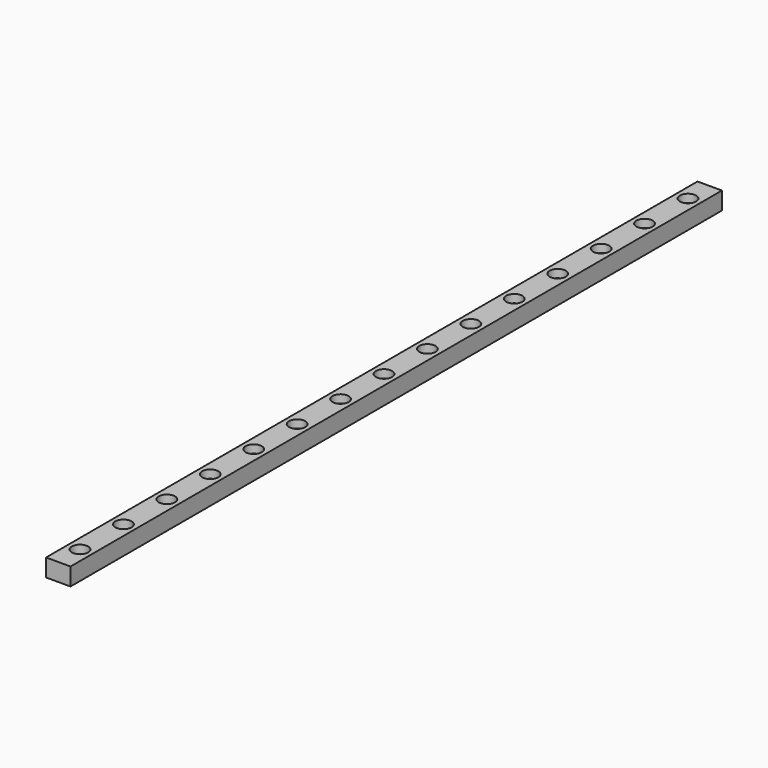
from build123d import *

# Parameters (mm, degrees)
F0_W           = 9
F0_H           = 6.5
F1_DEPTH       = 150
F1_DEPTH_BACK  = 150
F3_D           = 3.5
F3_CBORE_D     = 6
F3_CBORE_DEPTH = 3


with BuildPart() as f1:
    # F0 (on Front) → F1 (new body, two sides)
    with BuildSketch(Plane.XZ) as f1_sk:
        Rectangle(F0_W, F0_H)
    extrude(amount=F1_DEPTH)
    extrude(f1_sk.sketch, amount=-F1_DEPTH_BACK)

    # F3 (through all)
    with Locations(Plane.XY.offset(3.25)):
        with Locations((0, -140), (0, -120), (0, -100), (0, -80), (0, -60), (0, -40), (0, -20), (0, 0), (0, 20), (0, 40), (0, 60), (0, 80), (0, 100), (0, 120), (0, 140)):
            CounterBoreHole(F3_D / 2, F3_CBORE_D / 2, F3_CBORE_DEPTH)


solid = f1.part
